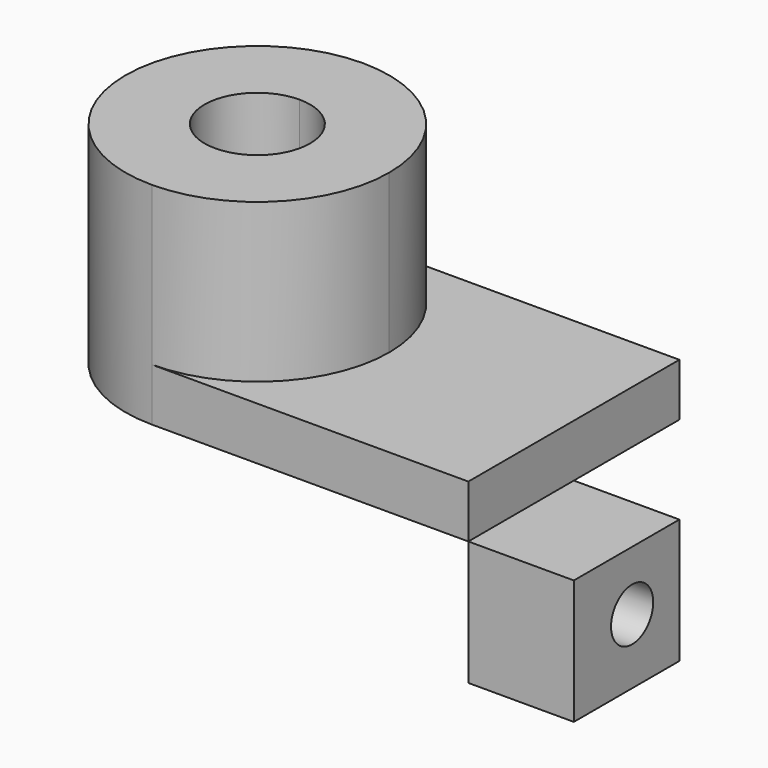
from build123d import *

# Parameters (mm, degrees)
F1_DEPTH = 12.7
F2_DEPTH = 50.8
F3_DEPTH = 50.8
F4_W     = 31.75
F4_H     = 29.984429
F4_R     = 6.35
F5_DEPTH = 25.4


with BuildPart() as f1:
    # F0 (on Top) → F1 (new body)
    with BuildSketch(Plane.XY):
        with BuildLine():
            Line((38.1, 31.75), (-38.1, 31.75))
            ThreePointArc((-38.1, 31.75), (-15.64936, 22.45064), (-6.35, 0))
            ThreePointArc((-6.35, 0), (-15.64936, -22.45064), (-38.1, -31.75))
            Line((-38.1, -31.75), (38.1, -31.75))
            Line((38.1, -31.75), (38.1, 31.75))
        make_face()
        with BuildLine():
            Line((-38.1, 12.7), (-38.1, 31.75))
            ThreePointArc((-38.1, 31.75), (-69.85, 0), (-38.1, -31.75))
            Line((-38.1, -31.75), (-38.1, -12.7))
            ThreePointArc((-38.1, -12.7), (-50.8, 0), (-38.1, 12.7))
        make_face()
    extrude(amount=F1_DEPTH)

    # F0 (on Top) → F2 (join)
    with BuildSketch(Plane.XY):
        with BuildLine():
            ThreePointArc((-6.35, 0), (-15.64936, 22.45064), (-38.1, 31.75))
            Line((-38.1, 31.75), (-38.1, 12.7))
            ThreePointArc((-38.1, 12.7), (-29.119744, 8.980256), (-25.4, 0))
            ThreePointArc((-25.4, 0), (-29.119744, -8.980256), (-38.1, -12.7))
            Line((-38.1, -12.7), (-38.1, -31.75))
            ThreePointArc((-38.1, -31.75), (-15.64936, -22.45064), (-6.35, 0))
        make_face()
    extrude(amount=F2_DEPTH)

    # F0 (on Top) → F3 (join)
    with BuildSketch(Plane.XY):
        with BuildLine():
            Line((-38.1, 12.7), (-38.1, 31.75))
            ThreePointArc((-38.1, 31.75), (-69.85, 0), (-38.1, -31.75))
            Line((-38.1, -31.75), (-38.1, -12.7))
            ThreePointArc((-38.1, -12.7), (-50.8, 0), (-38.1, 12.7))
        make_face()
    extrude(amount=F3_DEPTH)


with BuildPart() as f5:
    # F4 (on face) → F5 (new body)
    with BuildSketch(Plane.YZ.offset(38.1)):
        with Locations((-15.875, -14.992214)):
            Rectangle(F4_W, F4_H)
        with Locations((-14.21007, -14.323762)):
            Circle(F4_R, mode=Mode.SUBTRACT)
    extrude(amount=F5_DEPTH)


solid = Compound([f1.part, f5.part])
